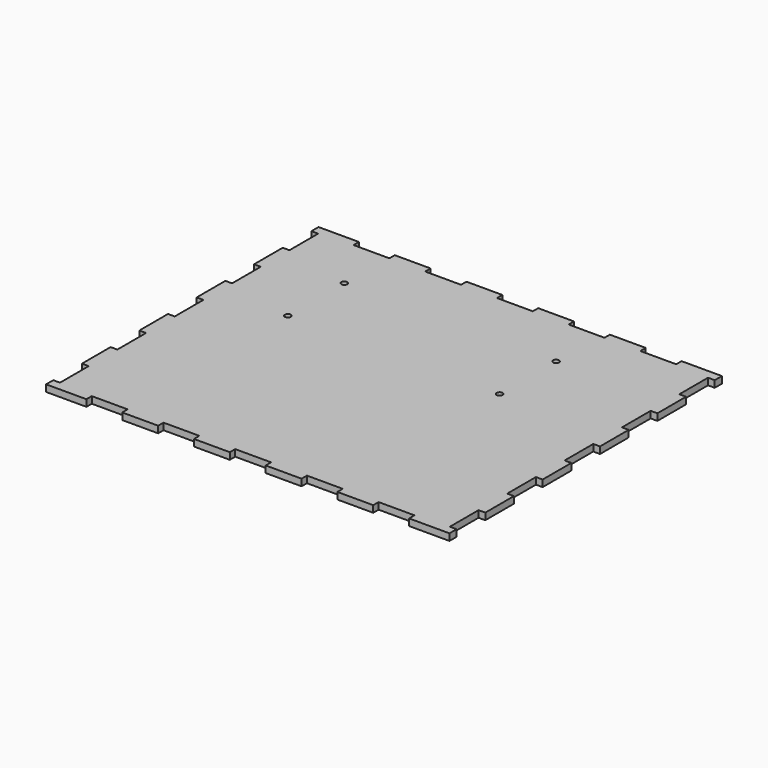
from build123d import *

# Parameters (mm, degrees)
F0_W     = 285.75
F0_H     = 241.3
F1_DEPTH = 4.7625
F2_R     = 2.1
F3_DEPTH = 25.4
F4_W     = 25.4
F4_H     = 4.7625
F4_W_2   = 4.7625
F4_H_2   = 25.4
F5_DEPTH = 25.4


with BuildPart() as f1:
    # F0 (on Top) → F1 (new body)
    with BuildSketch(Plane.XY):
        Rectangle(F0_W, F0_H)
    extrude(amount=F1_DEPTH)

    # F2 (on face) → F3 (cut)
    with BuildSketch(Plane.XY.offset(4.7625)):
        with Locations((-89.737489, 77.047496)):
            Circle(F2_R)
        with Locations((-89.737489, 27.047495)):
            Circle(F2_R)
        with Locations((60.262516, 77.047496)):
            Circle(F2_R)
        with Locations((60.262516, 27.047495)):
            Circle(F2_R)
    extrude(amount=-F3_DEPTH, mode=Mode.SUBTRACT)

    # F4 (on face) → F5 (cut)
    with BuildSketch(Plane.XY.offset(4.7625)):
        with Locations((0, -118.26875)):
            Rectangle(F4_W, F4_H)
        with Locations((50.8, -118.26875)):
            Rectangle(F4_W, F4_H)
        with Locations((101.6, -118.26875)):
            Rectangle(F4_W, F4_H)
        with Locations((-50.8, -118.26875)):
            Rectangle(F4_W, F4_H)
        with Locations((-101.6, -118.26875)):
            Rectangle(F4_W, F4_H)
        with Locations((-101.6, 118.26875)):
            Rectangle(F4_W, F4_H)
        with Locations((-50.8, 118.26875)):
            Rectangle(F4_W, F4_H)
        with Locations((0, 118.26875)):
            Rectangle(F4_W, F4_H)
        with Locations((50.8, 118.26875)):
            Rectangle(F4_W, F4_H)
        with Locations((101.6, 118.26875)):
            Rectangle(F4_W, F4_H)
        with Locations((140.49375, 0)):
            Rectangle(F4_W_2, F4_H_2)
        with Locations((140.49375, 50.8)):
            Rectangle(F4_W_2, F4_H_2)
        with Locations((140.49375, 101.6)):
            Rectangle(F4_W_2, F4_H_2)
        with Locations((140.49375, -50.8)):
            Rectangle(F4_W_2, F4_H_2)
        with Locations((140.49375, -101.6)):
            Rectangle(F4_W_2, F4_H_2)
        with Locations((-140.49375, 101.6)):
            Rectangle(F4_W_2, F4_H_2)
        with Locations((-140.49375, 50.8)):
            Rectangle(F4_W_2, F4_H_2)
        with Locations((-140.49375, 0)):
            Rectangle(F4_W_2, F4_H_2)
        with Locations((-140.49375, -50.8)):
            Rectangle(F4_W_2, F4_H_2)
        with Locations((-140.49375, -101.6)):
            Rectangle(F4_W_2, F4_H_2)
    extrude(amount=-F5_DEPTH, mode=Mode.SUBTRACT)


solid = f1.part
